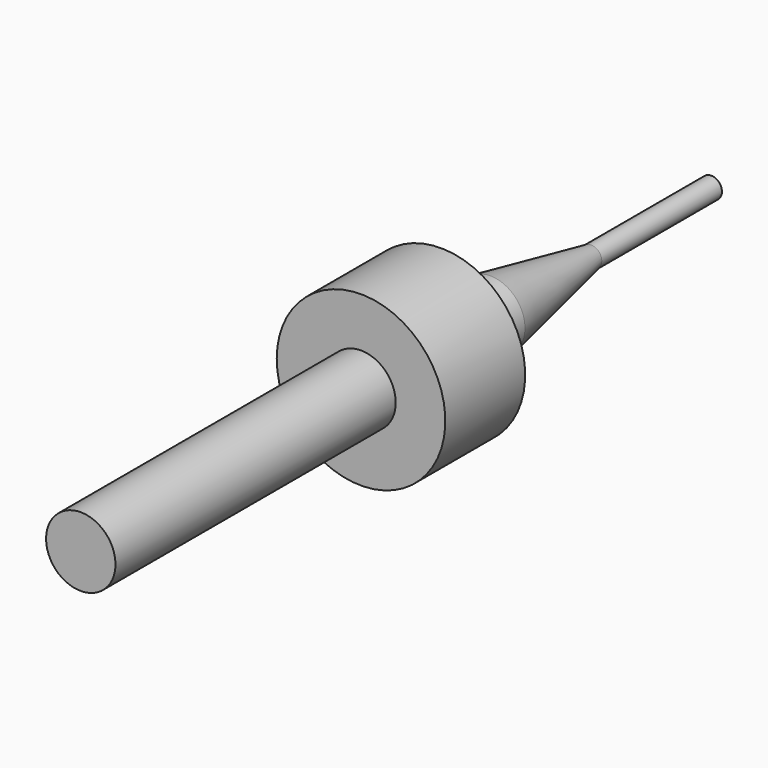
from build123d import *


with BuildPart() as part:
    # Sketch → Revolution (revolve)
    with BuildSketch(Plane.XY):
        Polygon((-1.585, 0), (-3.85, 0), (-3.85, 4.56), (-1.585, 4.56), (-1.585, 7.38), (-0.485, 13.14), (-0.485, 20), (0, 20), (0, 0), (0, -16), (-1.585, -16), align=None)
    revolve(axis=Axis((0, 0, 0), (0, 1, 0)))


solid = part.part
